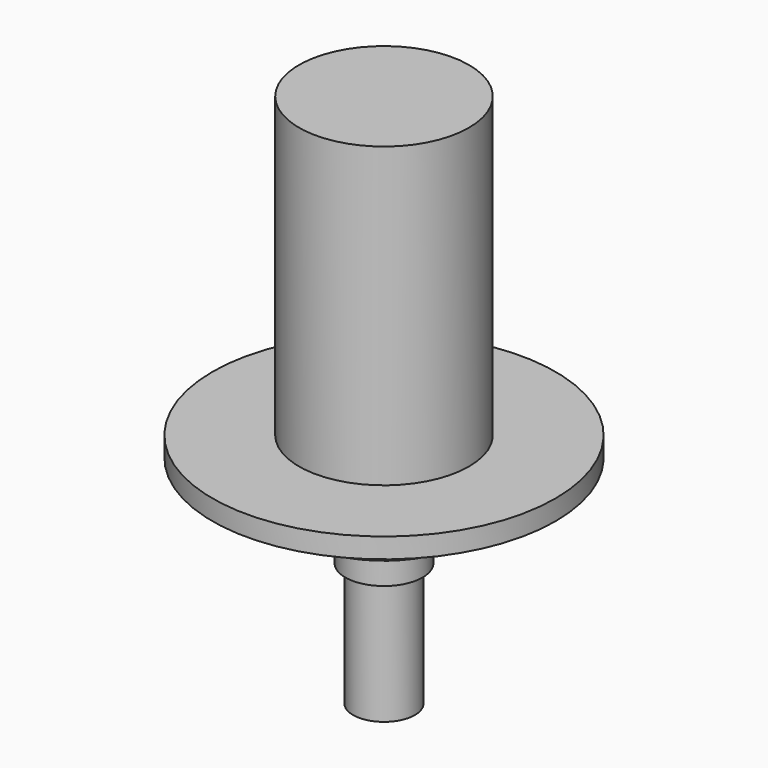
from build123d import *


with BuildPart() as part:
    # Sketch → Revolution (revolve)
    with BuildSketch(Plane.XZ):
        Polygon((0, 38.6), (11, 38.6), (11, 0), (22.2, 0), (22.2, -2.6), (11, -2.6), (11, -8.6), (5, -8.6), (5, -14.6), (4, -14.6), (4, -30.6), (0, -30.6), (0, -14.6), align=None)
    revolve(axis=Axis((0, 0, 0), (0, 0, 1)))


solid = part.part
